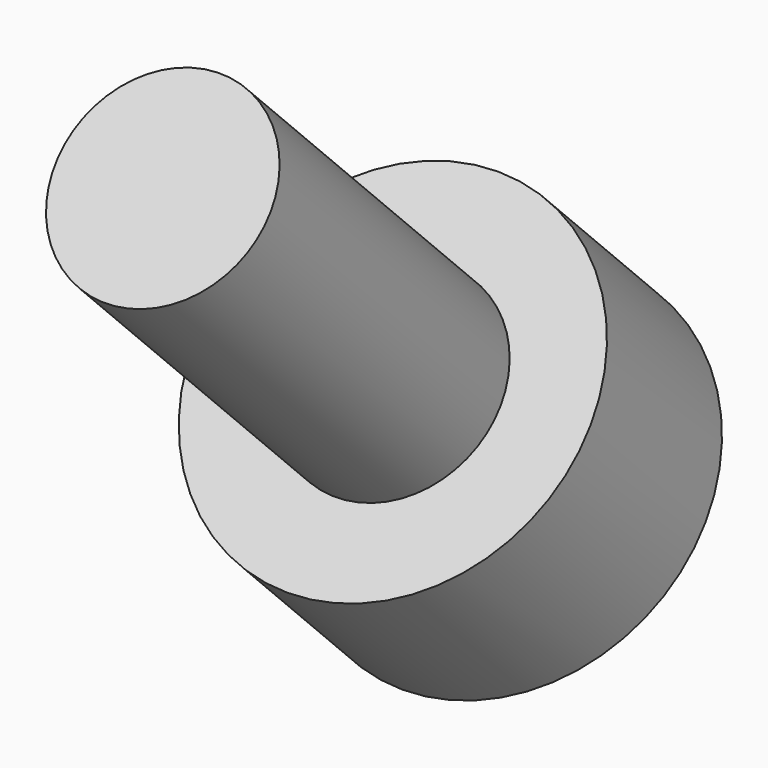
from build123d import *

# Parameters (mm, degrees)
SKETCH047_R             = 2.75
PAD024_DEPTH            = 3
SKETCH048_R             = 1.5
PAD025_DEPTH            = 6
POCKET022_DEPTH         = 4
BODY013_PLACEMENT_ANGLE = 225


with BuildPart() as part:
    # Sketch047 → Pad024 (new body)
    with BuildSketch(Plane.XY):
        Circle(SKETCH047_R)
    extrude(amount=PAD024_DEPTH)

    # Sketch048 (on Face2 of Pad024) → Pad025 (join)
    with BuildSketch(Plane(origin=(0, 0, 0), x_dir=(1, 0, 0), z_dir=(0, 0, -1))):
        Circle(SKETCH048_R)
    extrude(amount=PAD025_DEPTH)

    # Sketch049 (on DatumPlane) → Pocket022 (cut)
    with BuildSketch(Plane.XY.offset(3)):
        Polygon((0.721688, -1.25), (1.443376, 0), (0.721688, 1.25), (-0.721688, 1.25), (-1.443376, 0), (-0.721688, -1.25), align=None)
    extrude(amount=-POCKET022_DEPTH, mode=Mode.SUBTRACT)


with BuildPart() as part_1:
    # Body013 placement: moved
    add(part.part.moved(Location((-6.46, -61.94635, 6.089879))).rotate(Axis((-6.46, -61.94635, 6.089879), (1, 0, 0)), BODY013_PLACEMENT_ANGLE))


solid = part_1.part
